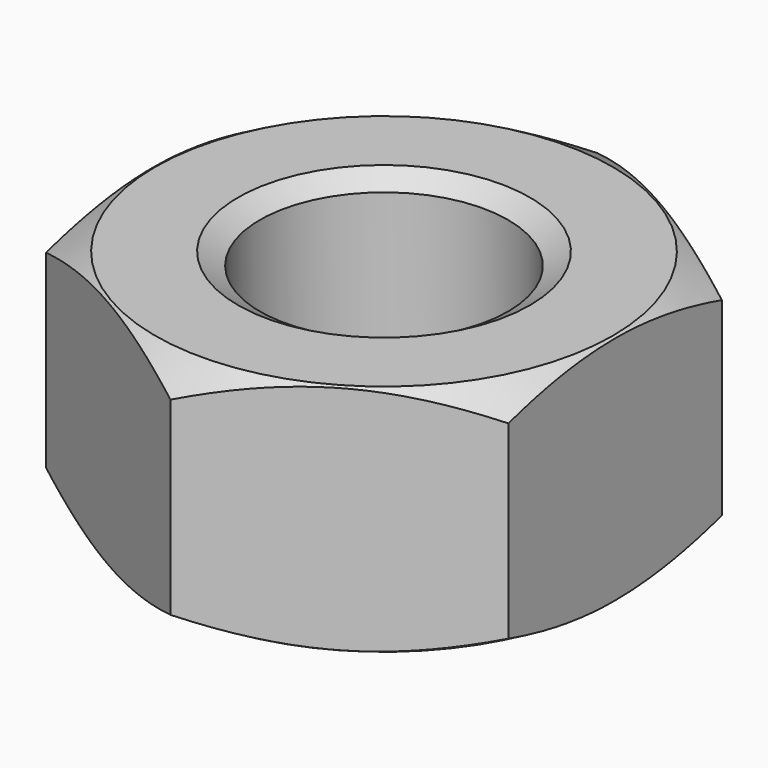
from build123d import *

# Parameters (mm, degrees)
SKETCH001_R  = 12
POCKET_DEPTH = 9.6


with BuildPart() as part:
    # Sketch → Revolution (revolve)
    with BuildSketch(Plane.XZ):
        Polygon((6, 0), (5.1, 0.519615), (5.1, 9.080385), (6, 9.6), (9.4, 9.6), (12, 8.098889), (12, 1.501111), (9.4, 0), align=None)
    revolve(axis=Axis((0, 0, 0), (0, 0, 1)))

    # Sketch001 → Pocket (cut)
    with BuildSketch(Plane(origin=(0, 0, 9.6), x_dir=(-1, 0, 0), z_dir=(0, 0, 1))):
        Circle(SKETCH001_R)
        Polygon((-9.5, 5.484828), (-9.5, -5.484828), (0, -10.969655), (9.5, -5.484828), (9.5, 5.484828), (0, 10.969655), align=None, mode=Mode.SUBTRACT)
    extrude(amount=-POCKET_DEPTH, mode=Mode.SUBTRACT)


solid = part.part
